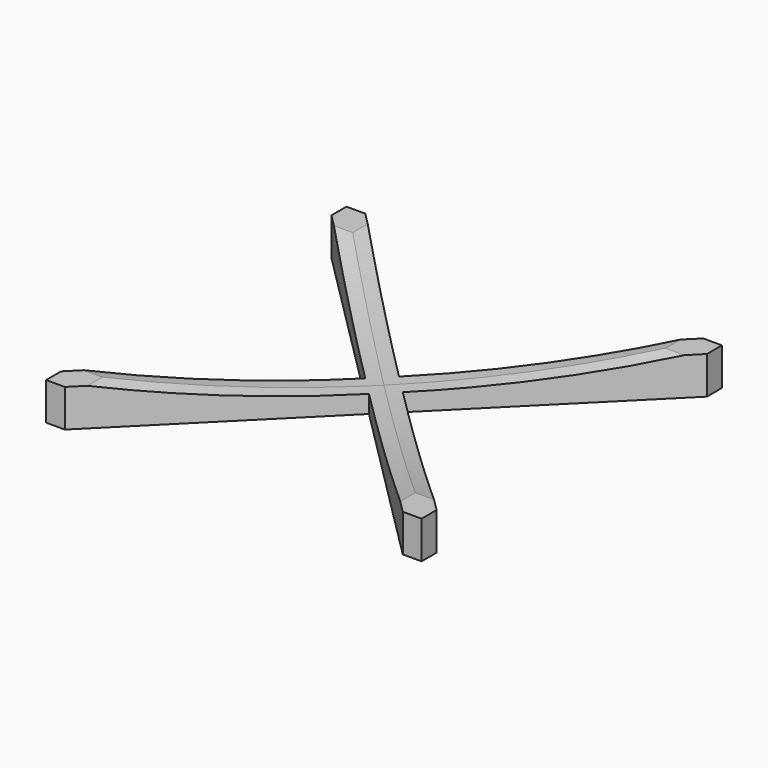
from build123d import *

# Parameters (mm, degrees)
F1_DEPTH = 15.24
F3_DEPTH = 152.401
F5_DEPTH = 152.401


with BuildPart() as f1:
    # F0 (on Top) → F1 (new body)
    with BuildSketch(Plane.XY):
        Polygon((-68.542148, 76.080675), (-76.162148, 76.080675), (-76.162148, 68.460675), (-7.582148, -0.119325), (-76.162148, -68.699325), (-76.162148, -76.319325), (-68.542148, -76.319325), (0.037852, -7.739325), (68.617852, -76.319325), (76.237852, -76.319325), (76.237852, -68.699325), (7.657852, -0.119325), (76.237852, 68.460675), (76.237852, 76.080675), (68.617852, 76.080675), (0.037852, 7.500675), align=None)
    extrude(amount=F1_DEPTH)

    # F2 (on face) → F3 (cut, through all)
    with BuildSketch(Plane.XZ.offset(76.319325)):
        with BuildLine():
            Line((63.537852, 15.24), (-63.462148, 15.24))
            ThreePointArc((-63.462148, 15.24), (0.037852, 7.174442), (63.537852, 15.24))
        make_face()
    extrude(amount=-F3_DEPTH, mode=Mode.SUBTRACT)

    # F4 (on face) → F5 (cut, through all)
    with BuildSketch(Plane(origin=(-76.162148, 0, 0), x_dir=(0, -1, 0), z_dir=(-1, 0, 0))):
        with BuildLine():
            Line((63.619325, 15.24), (-63.380675, 15.24))
            ThreePointArc((-63.380675, 15.24), (0.119325, 7.174442), (63.619325, 15.24))
        make_face()
    extrude(amount=-F5_DEPTH, mode=Mode.SUBTRACT)


solid = f1.part
